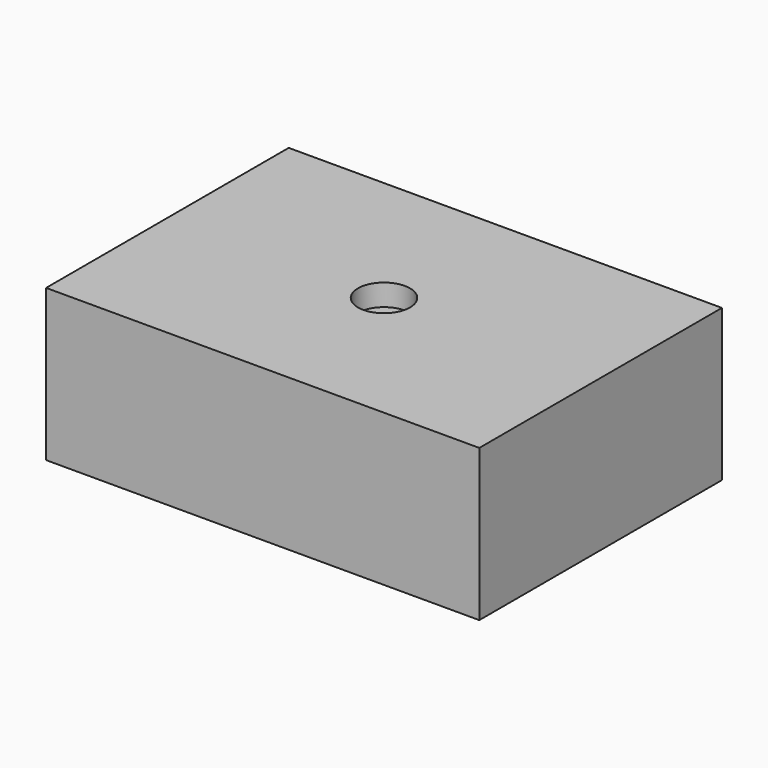
from build123d import *

# Parameters (mm, degrees)
F0_W           = 100
F0_H           = 70
F1_DEPTH       = 17.5
F3_D           = 5
F3_CBORE_D     = 12
F3_CBORE_DEPTH = 5


with BuildPart() as f1:
    # F0 (on Top) → F1 (new body, symmetric)
    with BuildSketch(Plane.XY):
        Rectangle(F0_W, F0_H)
    extrude(amount=F1_DEPTH, both=True)

    # F3 (through all)
    with Locations(Plane.XY.offset(17.5)):
        with Locations((0, 0)):
            CounterBoreHole(F3_D / 2, F3_CBORE_D / 2, F3_CBORE_DEPTH)


solid = f1.part
